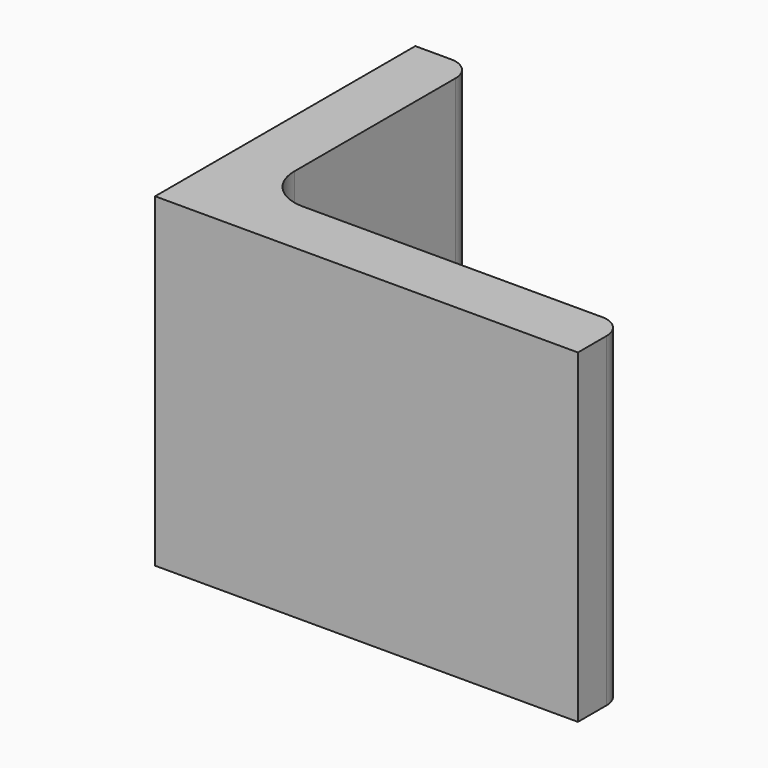
from build123d import *

# Parameters (mm, degrees)
EXTRUDE_DEPTH = 50


with BuildPart() as part:
    # Sketch → Extrude (new body)
    with BuildSketch(Plane.XY):
        with BuildLine():
            Line((0, 0), (65, 0))
            Line((65, 0), (65, 5.5))
            ThreePointArc((65, 5.5), (63.974874, 7.974874), (61.5, 9))
            Line((61.5, 9), (15.5, 9))
            ThreePointArc((9, 15.5), (10.903806, 10.903806), (15.5, 9))
            Line((9, 46.5), (9, 15.5))
            ThreePointArc((9, 46.5), (7.974874, 48.974874), (5.5, 50))
            Line((0, 50), (5.5, 50))
            Line((0, 0), (0, 50))
        make_face()
    extrude(amount=EXTRUDE_DEPTH)


solid = part.part
